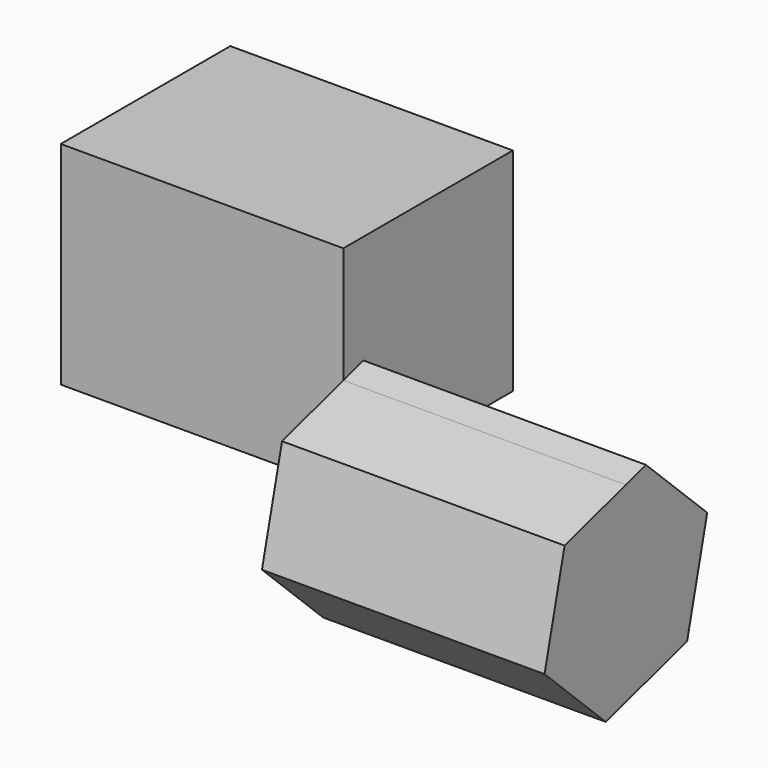
from build123d import *

# Parameters (mm, degrees)
F0_W     = 76.2
F0_H     = 76.2
F1_DEPTH = 101.6
F3_DEPTH = 101.6


with BuildPart() as f1:
    # F0 (on Right) → F1 (new body)
    with BuildSketch(Plane.YZ):
        with Locations((38.1, 38.1)):
            Rectangle(F0_W, F0_H)
    extrude(amount=F1_DEPTH)

    # F2 (on face) → F3 (join)
    with BuildSketch(Plane.YZ.offset(101.6)):
        Polygon((-27.540024, 26.327876), (-36.570622, -10.686423), (-9.030597, -37.014299), (27.540024, -26.327876), (33.963392, 0), (0, 0), (0, 34.375438), align=None)
        Polygon((9.030597, 37.014299), (0, 34.375438), (0, 0), (33.963392, 0), (36.570622, 10.686423), align=None)
    extrude(amount=F3_DEPTH)


solid = f1.part
